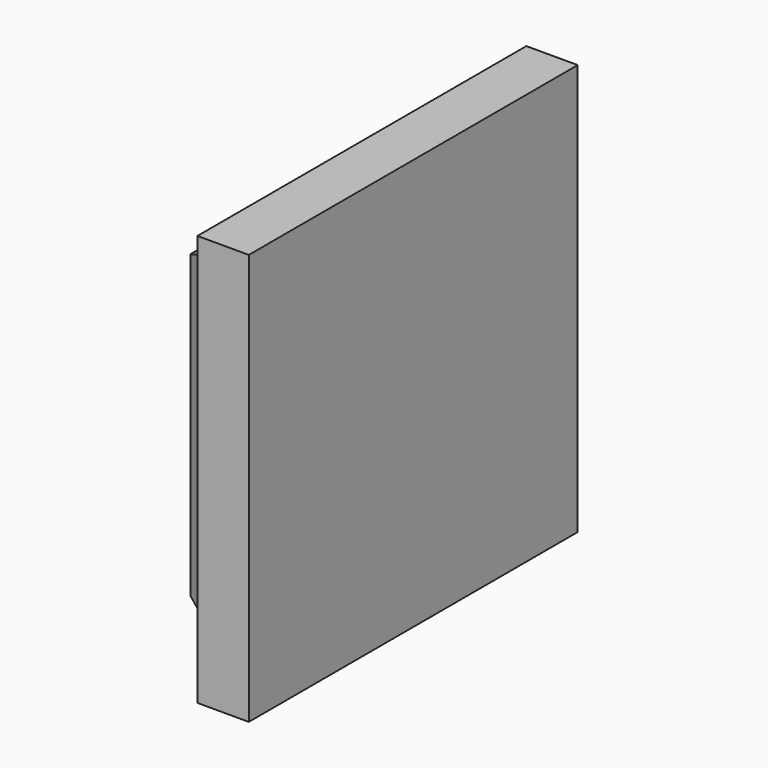
from build123d import *

# Parameters (mm, degrees)
F0_W     = 200
F0_H     = 200
F1_DEPTH = 25
F2_W     = 169.5
F2_H     = 169.5
F3_DEPTH = 25
F3_TAPER = 25
F4_W     = 22
F4_H     = 30
F5_DEPTH = 5


with BuildPart() as f1:
    # F0 (on Right) → F1 (new body)
    with BuildSketch(Plane.YZ):
        with Locations((100, 100)):
            Rectangle(F0_W, F0_H)
    extrude(amount=F1_DEPTH)

    # F2 (on face) → F3 (join)
    with BuildSketch(Plane(origin=(0, 0, 0), x_dir=(0, -1, 0), z_dir=(-1, 0, 0))):
        with Locations((-100, 100)):
            Rectangle(F2_W, F2_H)
    extrude(amount=F3_DEPTH, taper=F3_TAPER)

    # F4 (on face) → F5 (cut)
    with BuildSketch(Plane(origin=(0, 0, 0), x_dir=(1, 0, 0), z_dir=(0, 0, -1))):
        with Locations((11, -165)):
            Rectangle(F4_W, F4_H)
        with Locations((11, -35)):
            Rectangle(F4_W, F4_H)
    extrude(amount=-F5_DEPTH, mode=Mode.SUBTRACT)


solid = f1.part
